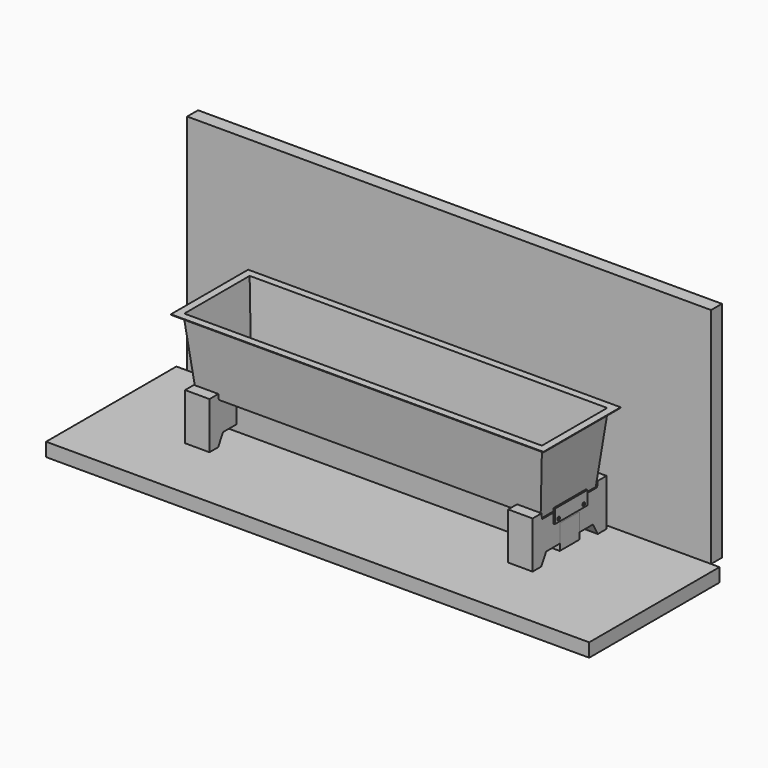
from build123d import *

# Parameters (mm, degrees)
F0_W      = 635
F0_H      = 127
F2_W      = 660.4
F2_H      = 152.4
F4_T      = -1
F5_W      = 685.8
F5_H      = 177.8
F5_W_2    = 658.3900248758
F5_H_2    = 150.3900248758
F6_DEPTH  = 1
F8_W      = 1000
F8_H      = 300
F9_DEPTH  = 25
F10_W     = 964.6258950233
F10_H     = 411.5948891163
F11_DEPTH = 25
F14_DEPTH = 45
F15_W     = 75
F15_H     = 25
F15_R     = 3
F16_DEPTH = 3
F18_W     = 45
F18_H     = 45
F19_DEPTH = 640


with BuildPart() as f3:
    # F0 (on Top) → F3 section 0
    with BuildSketch(Plane.XY):
        Rectangle(F0_W, F0_H)
    # F2 (on offset) → F3 section 1
    with BuildSketch(Plane.XY.offset(127)):
        Rectangle(F2_W, F2_H)
    loft()

    # F4
    f4_openings = [f3.faces().sort_by_distance(p)[0] for p in [
        (0, 0, 127),
    ]]
    offset(amount=F4_T, openings=f4_openings, kind=Kind.INTERSECTION)

    # F5 (on offset) → F6 (join)
    with BuildSketch(Plane.XY.offset(127)):
        Rectangle(F5_W, F5_H)
        Rectangle(F5_W_2, F5_H_2, mode=Mode.SUBTRACT)
    extrude(amount=-F6_DEPTH)


with BuildPart() as f9:
    # F8 (on offset) → F9 (new body)
    with BuildSketch(Plane.XY.offset(-76.2)):
        with Locations((21.0319106322, -56.1)):
            Rectangle(F8_W, F8_H)
    extrude(amount=-F9_DEPTH)


with BuildPart() as f11:
    # F10 (on face) → F11 (new body)
    with BuildSketch(Plane(origin=(0, 93.9, 0), x_dir=(-1, 0, 0), z_dir=(0, 1, 0))):
        with Locations((-23.1108367443, 129.5974445581)):
            Rectangle(F10_W, F10_H)
    extrude(amount=F11_DEPTH)


with BuildPart() as f14:
    # F13 (on offset) → F14 (new body)
    with BuildSketch(Plane.YZ.offset(275)):
        Polygon((-64.5, 10), (-85, 10), (-85, -76.2), (-65, -76.2), (-53.887236689, -56.2), (-22.5, -56.2), (-22.5, -23.0920892209), (22.5, -23.0920892209), (22.5, -56.2), (53.887236689, -56.2), (65, -76.2), (85, -76.2), (85, 10), (64.5, 10), (63.5, 0), (-63.5, 0), align=None)
    extrude(amount=F14_DEPTH)


with BuildPart() as f16:
    # F15 (on face) → F16 (new body)
    with BuildSketch(Plane.YZ.offset(320)):
        with Locations((0, -5.1209209487)):
            Rectangle(F15_W, F15_H)
        with Locations((-28.9889592677, -12.1209209487)):
            Circle(F15_R, mode=Mode.SUBTRACT)
        with Locations((28.9889592677, -12.1209209487)):
            Circle(F15_R, mode=Mode.SUBTRACT)
    extrude(amount=F16_DEPTH)


with BuildPart() as f17_1:
    # F17: instance of F14
    add(f14.part.mirror(Plane.YZ))


with BuildPart() as f17_2:
    # F17: instance of F16
    add(f16.part.mirror(Plane.YZ))


with BuildPart() as f19:
    # F18 (on face) → F19 (new body, through all)
    with BuildSketch(Plane.YZ.offset(320)):
        with Locations((0, -45.5920892209)):
            Rectangle(F18_W, F18_H)
    extrude(amount=-F19_DEPTH)


solid = Compound([f3.part, f9.part, f11.part, f14.part, f16.part, f17_1.part, f17_2.part, f19.part])
